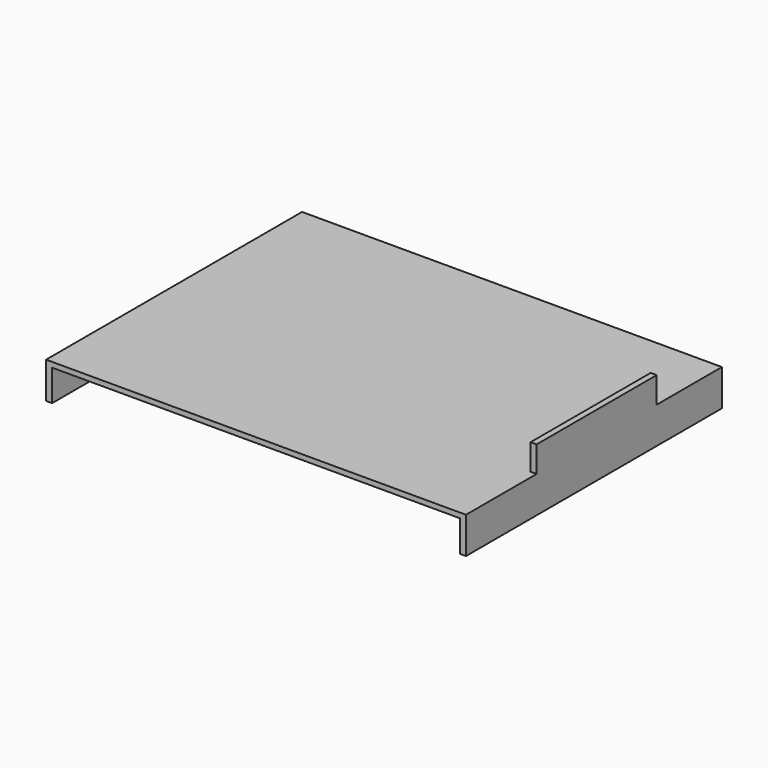
from build123d import *

# Parameters (mm, degrees)
F1_DEPTH = 320
F2_W     = 150
F2_H     = 26.066691
F3_DEPTH = 6


with BuildPart() as f1:
    # F0 (on Front) → F1 (new body)
    with BuildSketch(Plane.XZ):
        Polygon((-210, 0), (-210, -36.39128), (-204, -36.39128), (-204, -5.086953), (0, -5.086953), (204, -5.086953), (204, -36.39128), (210, -36.39128), (210, 0), (0, 0), align=None)
    extrude(amount=F1_DEPTH)

    # F2 (on face) → F3 (join)
    with BuildSketch(Plane.YZ.offset(210)):
        with Locations((-156.593922, 13.033345)):
            Rectangle(F2_W, F2_H)
    extrude(amount=-F3_DEPTH)


solid = f1.part
